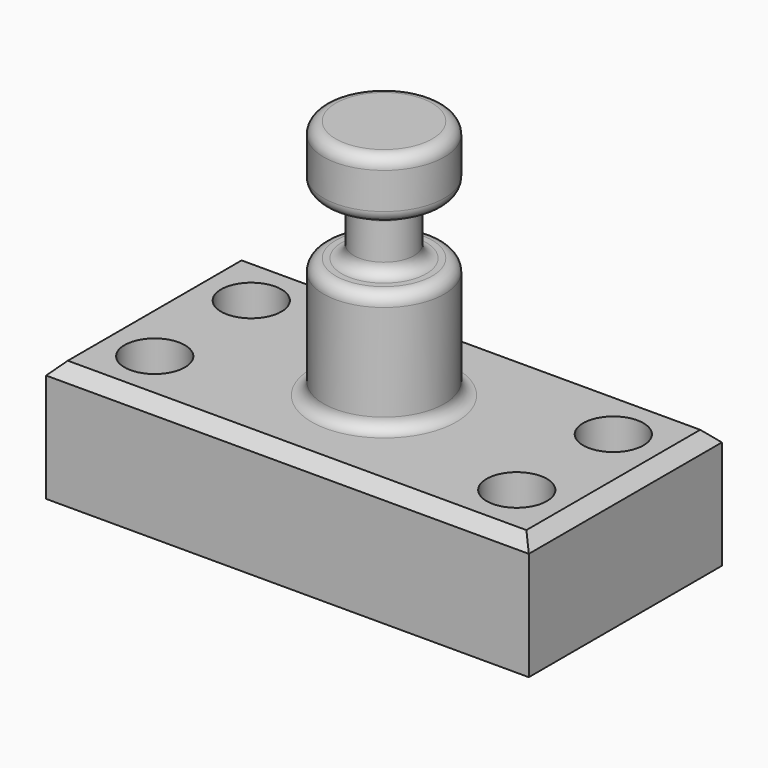
from build123d import *

# Parameters (mm, degrees)
F0_W     = 101.6
F0_H     = 50.8
F1_DEPTH = 25.4
F2_R     = 6.35
F3_DEPTH = 25.401
F4_W     = 12.7
F4_H     = 50.8
F6_W     = 14.0765146797
F6_H     = 12.7
F8_R     = 2.54
F9_SIZE  = 2.54


with BuildPart() as f1:
    # F0 (on Top) → F1 (new body)
    with BuildSketch(Plane.XY):
        Rectangle(F0_W, F0_H)
    extrude(amount=F1_DEPTH)

    # F2 (on face) → F3 (cut, through all)
    with BuildSketch(Plane.XY.offset(25.4)):
        with Locations((-38.1, 12.7)):
            Circle(F2_R)
        with Locations((-38.1, -12.7)):
            Circle(F2_R)
        with Locations((38.1, 12.7)):
            Circle(F2_R)
        with Locations((38.1, -12.7)):
            Circle(F2_R)
    extrude(amount=-F3_DEPTH, mode=Mode.SUBTRACT)

    # F4 (on Front) → F5 (revolve)
    with BuildSketch(Plane.XZ):
        with Locations((-6.35, 50.8)):
            Rectangle(F4_W, F4_H)
    revolve(axis=Axis((0, 0, 50.8), (0, 0, 1)))

    # F6 (on Front) → F7 (revolve, cut)
    with BuildSketch(Plane.XZ):
        with Locations((-13.3882573399, 57.15)):
            Rectangle(F6_W, F6_H)
    revolve(axis=Axis((0, 0, 39.0692129731), (0, 0, 1)), mode=Mode.SUBTRACT)

    # F8
    f8_edges = [f1.edges().sort_by_distance(p)[0] for p in [
        (12.7, 0, 50.8),
        (6.35, 0, 50.8),
        (12.7, 0, 76.2),
        (12.7, 0, 63.5),
        (6.35, 0, 63.5),
        (12.7, 0, 25.4),
    ]]
    fillet(f8_edges, radius=F8_R)

    # F9
    f9_edges = [f1.edges().sort_by_distance(p)[0] for p in [
        (0, -25.4, 25.4),
        (-50.8, 0, 25.4),
        (0, 25.4, 25.4),
        (50.8, 0, 25.4),
    ]]
    chamfer(f9_edges, length=F9_SIZE)


solid = f1.part
